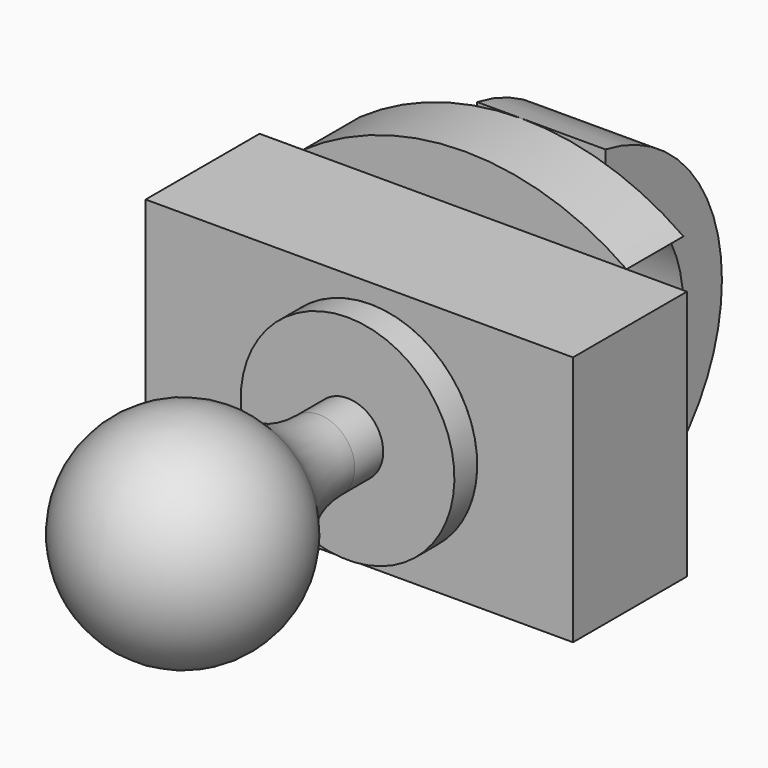
from build123d import *

# Parameters (mm, degrees)
F2_W     = 76.2
F2_H     = 44.7226946513
F2_R     = 19.05
F3_DEPTH = 25.4
F5_DEPTH = 12.7
F7_DEPTH = 11.43


with BuildPart() as f1:
    # F0 (on Right) → F1 (revolve)
    with BuildSketch(Plane.YZ):
        with BuildLine():
            Line((-19.05, 0), (19.05, 0))
            ThreePointArc((19.05, 0), (17.6212086291, 7.2384740416), (13.5491594277, 13.3911455374))
            ThreePointArc((13.5491594277, 13.3911455374), (-7.2384740416, 17.6212086291), (-19.05, 0))
        make_face()
        with BuildLine():
            ThreePointArc((13.5491594277, 13.3911455374), (17.6212086291, 7.2384740416), (19.05, 0))
            Line((19.05, 0), (36.7481327612, 0))
            Line((36.7481327612, 0), (36.7481327612, 6.35))
            Line((36.7481327612, 6.35), (30.4079784819, 6.35))
            ThreePointArc((30.4079784819, 6.35), (21.2729153954, 8.1810059772), (13.5491594277, 13.3911455374))
        make_face()
        Polygon((36.7481327612, 6.35), (36.7481327612, 0), (41.8281327612, 0), (41.8281327612, 19.05), (36.7481327612, 19.05), align=None)
    revolve(axis=Axis((0, 11.3890663806, 0), (0, 1, 0)))


with BuildPart() as f3:
    # F2 (on face) → F3 (new body)
    with BuildSketch(Plane(origin=(0, 41.8281327612, 0), x_dir=(-1, 0, 0), z_dir=(0, 1, 0))):
        with Locations((1.9701402634, 0.075773336)):
            Rectangle(F2_W, F2_H)
        Circle(F2_R, mode=Mode.SUBTRACT)
    extrude(amount=F3_DEPTH)


with BuildPart() as f5:
    # F4 (on face) → F5 (new body)
    with BuildSketch(Plane(origin=(0, 67.2281327612, 0), x_dir=(-1, 0, 0), z_dir=(0, 1, 0))):
        with BuildLine():
            Line((33.6851105094, -22.2855739896), (-24.2860000581, -22.2855739896))
            ThreePointArc((-24.2860000581, -22.2855739896), (4.6995552257, -30.5020236554), (33.6851105094, -22.2855739896))
        make_face()
    extrude(amount=F5_DEPTH)


with BuildPart() as f5b:
    # F4 (on face) → F5, piece 2 (new body)
    with BuildSketch(Plane(origin=(0, 67.2281327612, 0), x_dir=(-1, 0, 0), z_dir=(0, 1, 0))):
        with BuildLine():
            ThreePointArc((32.3013700545, 22.4371206616), (3.4764967859, 31.5568124537), (-25.3483764827, 22.4371206616))
            Line((-25.3483764827, 22.4371206616), (32.3013700545, 22.4371206616))
        make_face()
    extrude(amount=F5_DEPTH)


with BuildPart() as f7:
    # F6 (on Right) → F7 (new body, symmetric)
    with BuildSketch(Plane.YZ):
        with BuildLine():
            ThreePointArc((79.9281327612, 22.4371206616), (97.2532908221, 0.075773336), (79.9281327612, -22.2855739896))
            Line((79.9281327612, -22.2855739896), (79.9281327612, -30.5020236554))
            ThreePointArc((79.9281327612, -30.5020236554), (105.8902724062, 0.5273943992), (79.9281327612, 31.5568124537))
            Line((79.9281327612, 31.5568124537), (79.9281327612, 22.4371206616))
        make_face()
    extrude(amount=F7_DEPTH, both=True)


solid = Compound([f1.part, f3.part, f5.part, f5b.part, f7.part])
